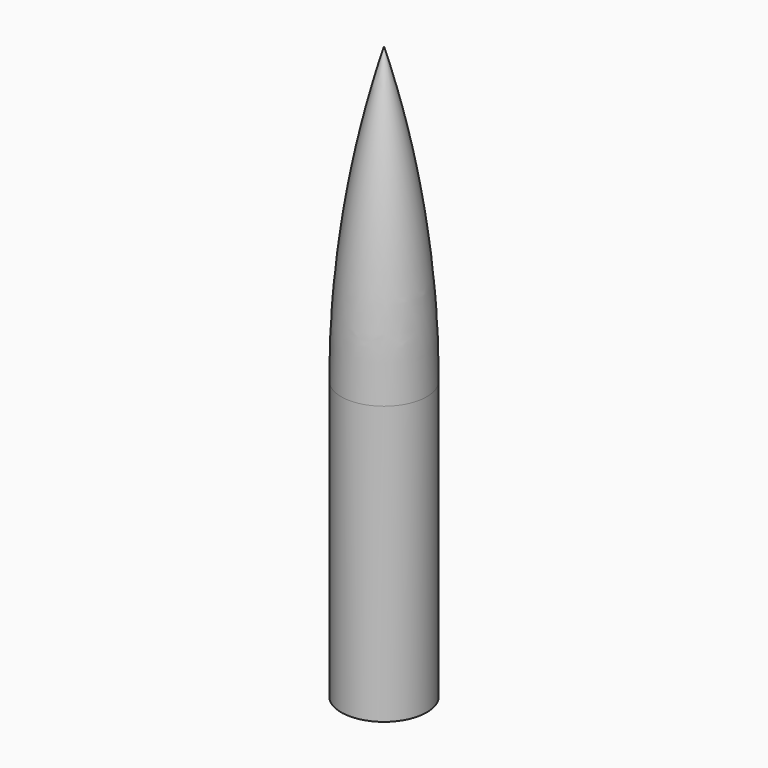
from build123d import *


with BuildPart() as f1:
    # F0 (on Right) → F1 (revolve)
    with BuildSketch(Plane.YZ):
        with BuildLine():
            Line((0, 64), (0, 0))
            Line((0, 0), (4, 0))
            Line((4, 0), (4, 4.435024))
            ThreePointArc((4, 4.435024), (4.676706, 6.153525), (6.343449, 6.94923))
            ThreePointArc((6.343449, 6.94923), (8.232881, 7.851246), (9, 9.799352))
            Line((9, 9.799352), (9, 55.084109))
            ThreePointArc((9, 55.084109), (6.358813, 61.418403), (0, 64))
        make_face()
    revolve(axis=Axis((0, 0, 32), (0, 0, 1)))


with BuildPart() as f3:
    # F2 (on Right) → F3 (revolve)
    with BuildSketch(Plane.YZ):
        with BuildLine():
            Line((9.5, 61.639774), (9.5, 0))
            Line((9.5, 0), (11.5, 0))
            Line((11.5, 0), (11.5, 74.718618))
            ThreePointArc((11.5, 74.718618), (8.610034, 114.773538), (0, 153.998733))
            Line((0, 153.998733), (0, 74.718618))
            Line((0, 74.718618), (9.5, 61.639774))
        make_face()
    revolve(axis=Axis((0, 0, 99.716664), (0, 0, 1)))


solid = Compound([f1.part, f3.part])
